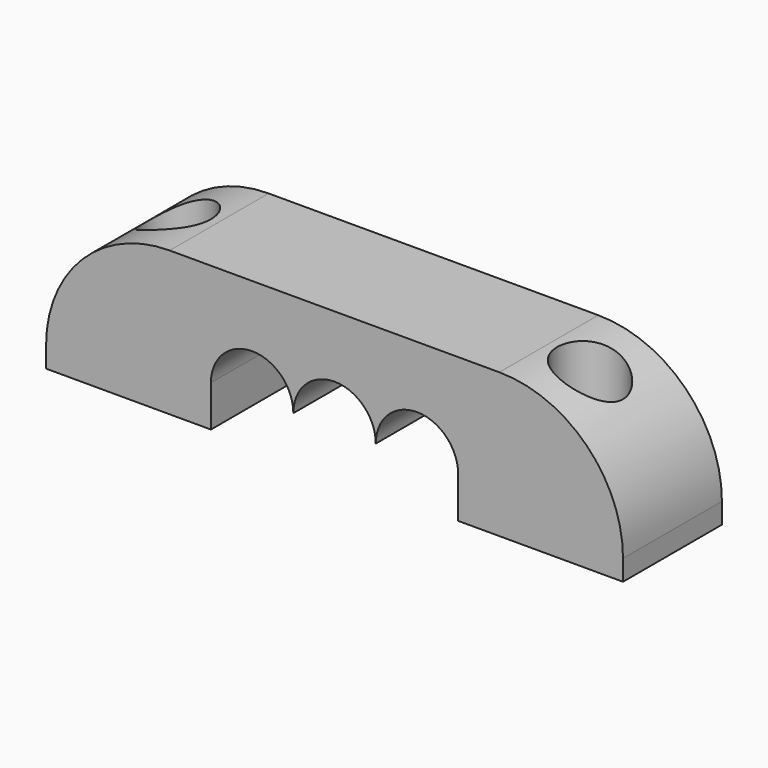
from build123d import *

# Parameters (mm, degrees)
F1_DEPTH = 3
F2_R     = 3
F4_D     = 1.6


with BuildPart() as f1:
    # F0 (on Front) → F1 (new body)
    with BuildSketch(Plane.XZ):
        with BuildLine():
            ThreePointArc((1, 0), (2, 1), (3, 0))
            Line((3, 0), (3, -1))
            Line((3, -1), (7, -1))
            Line((7, -1), (7, 2.5))
            Line((7, 2.5), (-7, 2.5))
            Line((-7, 2.5), (-7, -1))
            Line((-7, -1), (-3, -1))
            Line((-3, -1), (-3, 0))
            ThreePointArc((-3, 0), (-2, 1), (-1, 0))
            ThreePointArc((-1, 0), (0, 1), (1, 0))
        make_face()
    extrude(amount=F1_DEPTH)

    # F2
    f2_edges = [f1.edges().sort_by_distance(p)[0] for p in [
        (7, -1.5, 2.5),
        (-7, -1.5, 2.5),
    ]]
    fillet(f2_edges, radius=F2_R)

    # F4 (through all)
    with Locations(Plane(origin=(0, 0, -1), x_dir=(1, 0, 0), z_dir=(0, 0, -1))):
        with Locations((-5, 1.5), (5, 1.5)):
            Hole(F4_D / 2)


solid = f1.part
